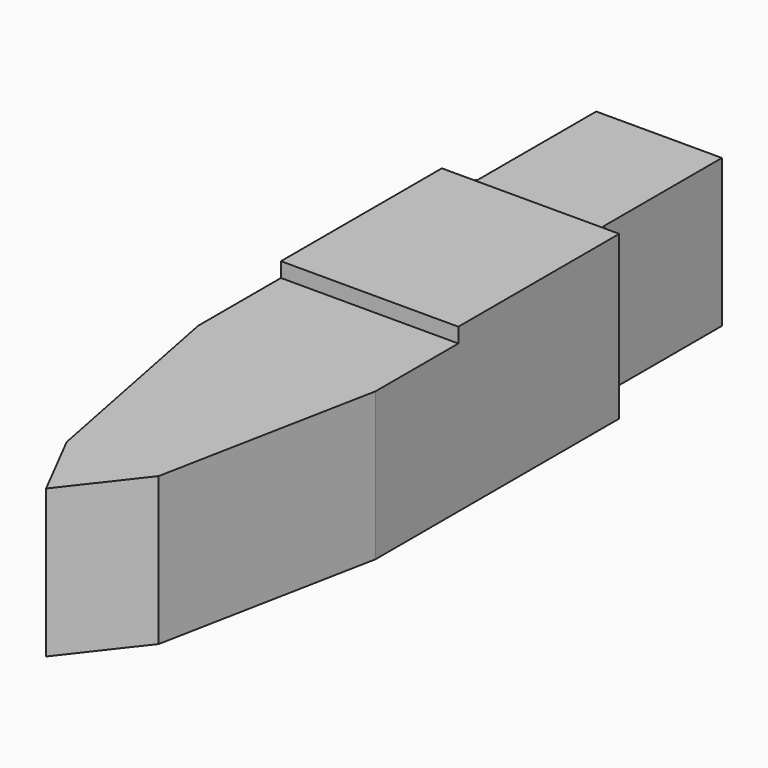
from build123d import *

# Parameters (mm, degrees)
F0_W     = 21.59
F0_H     = 25.4
F1_DEPTH = 25.4
F2_DEPTH = 27.94
F3_DEPTH = 25.4


with BuildPart() as f1:
    # F0 (on Top) → F1 (new body)
    with BuildSketch(Plane.XY):
        with Locations((-10.795, 51.474535)):
            Rectangle(F0_W, F0_H)
        Polygon((-24.402696, 34.54427), (6.066474, 34.54427), (0, 38.774535), (-21.59, 38.774535), align=None)
    extrude(amount=F1_DEPTH)

    # F0 (on Top) → F2 (join)
    with BuildSketch(Plane.XY):
        Polygon((-10.795, 0), (0, 0), (6.066474, 0), (6.066474, 34.54427), (-24.402696, 34.54427), (-24.402696, 0), (-21.59, 0), align=None)
    extrude(amount=F2_DEPTH)

    # F0 (on Top) → F3 (join)
    with BuildSketch(Plane.XY):
        Polygon((6.066474, 0), (0, 0), (-10.795, 0), (-21.59, 0), (-24.402696, 0), (-24.402696, -17.78), (-17.076401, -55.168974), (-10.795, -67.434295), (-1.259822, -55.168974), (6.066474, -17.78), align=None)
    extrude(amount=F3_DEPTH)


solid = f1.part
